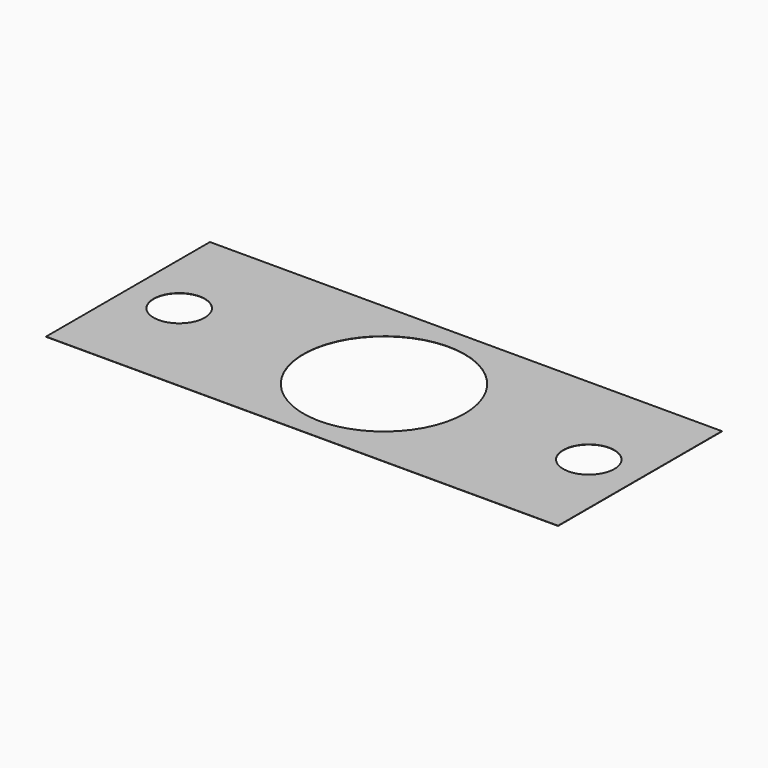
from build123d import *

# Parameters (mm, degrees)
SKETCH_W   = 200
SKETCH_H   = 80
SKETCH_R   = 31.5
SKETCH_R_2 = 10
PAD_DEPTH  = 0.1


with BuildPart() as part:
    # Sketch → Pad (new body)
    with BuildSketch(Plane.XY):
        Rectangle(SKETCH_W, SKETCH_H)
        Circle(SKETCH_R, mode=Mode.SUBTRACT)
        with Locations((80, 0)):
            Circle(SKETCH_R_2, mode=Mode.SUBTRACT)
        with Locations((-80, 0)):
            Circle(SKETCH_R_2, mode=Mode.SUBTRACT)
    extrude(amount=PAD_DEPTH)


solid = part.part
